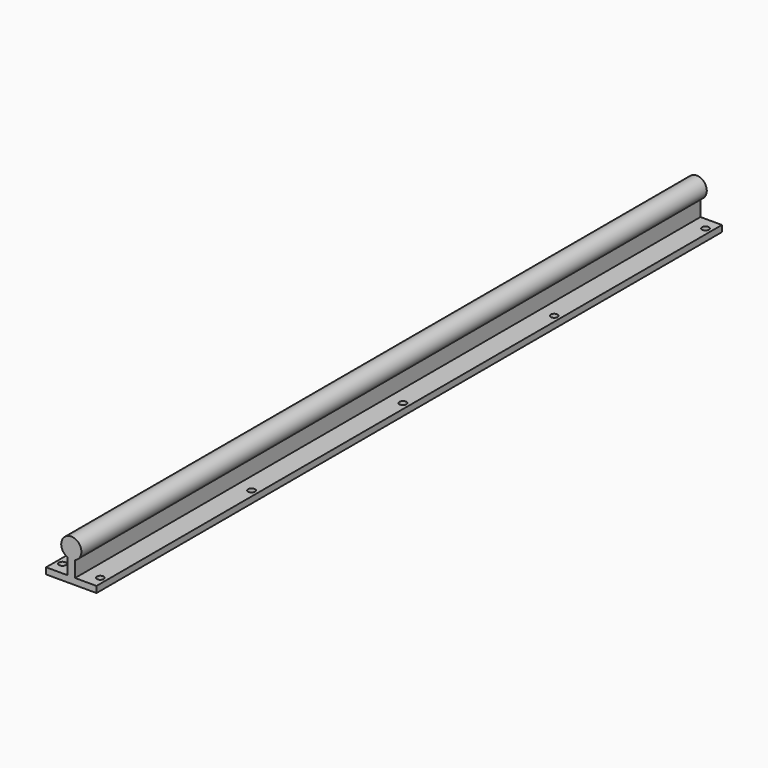
from build123d import *

# Parameters (mm, degrees)
F2_DEPTH = 620
F1_R     = 2.75
F3_DEPTH = 2.75


with BuildPart() as f2:
    # F0 (on Front) → F2 (new body)
    with BuildSketch(Plane.XZ):
        with BuildLine():
            Line((20, -2.5), (20, 2.5))
            Line((20, 2.5), (3, 2.5))
            Line((3, 2.5), (3, 15.0838015129))
            ThreePointArc((3, 15.0838015129), (0, 30.5), (-3, 15.0838015129))
            Line((-3, 15.0838015129), (-3, 2.5))
            Line((-3, 2.5), (-20, 2.5))
            Line((-20, 2.5), (-20, -2.5))
            Line((-20, -2.5), (20, -2.5))
        make_face()
    extrude(amount=-F2_DEPTH)

    # F1 (on Top) → F3 (cut, symmetric)
    with BuildSketch(Plane.XY):
        with Locations((15, 10)):
            Circle(F1_R)
        with Locations((15, 160)):
            Circle(F1_R)
        with Locations((15, 310)):
            Circle(F1_R)
        with Locations((15, 460)):
            Circle(F1_R)
        with Locations((15, 610)):
            Circle(F1_R)
        with Locations((-15, 10)):
            Circle(F1_R)
        with Locations((-15, 160)):
            Circle(F1_R)
        with Locations((-15, 310)):
            Circle(F1_R)
        with Locations((-15, 460)):
            Circle(F1_R)
        with Locations((-15, 610)):
            Circle(F1_R)
    extrude(amount=F3_DEPTH, both=True, mode=Mode.SUBTRACT)


solid = f2.part
